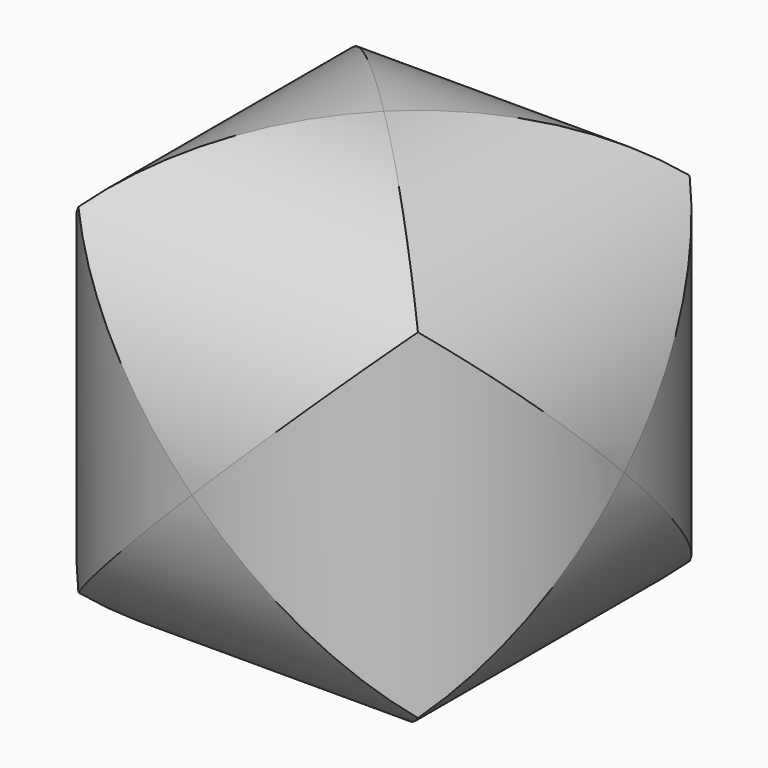
from build123d import *

# Parameters (mm, degrees)
F0_R     = 63.5
F1_DEPTH = 63.5
F2_W     = 209.9135220051
F2_H     = 188.6474490166
F2_R     = 63.5
F3_DEPTH = 63.5
F4_W     = 154.9591273069
F4_H     = 152.5524
F4_R     = 63.5
F5_DEPTH = 63.5


with BuildPart() as f1:
    # F0 (on Front) → F1 (new body, symmetric)
    with BuildSketch(Plane.XZ):
        Circle(F0_R)
    extrude(amount=F1_DEPTH, both=True)

    # F2 (on Top) → F3 (cut, symmetric)
    with BuildSketch(Plane.XY):
        Rectangle(F2_W, F2_H)
        Circle(F2_R, mode=Mode.SUBTRACT)
    extrude(amount=F3_DEPTH, both=True, mode=Mode.SUBTRACT)

    # F4 (on Right) → F5 (cut, symmetric)
    with BuildSketch(Plane.YZ):
        Rectangle(F4_W, F4_H)
        Circle(F4_R, mode=Mode.SUBTRACT)
    extrude(amount=F5_DEPTH, both=True, mode=Mode.SUBTRACT)


solid = f1.part
